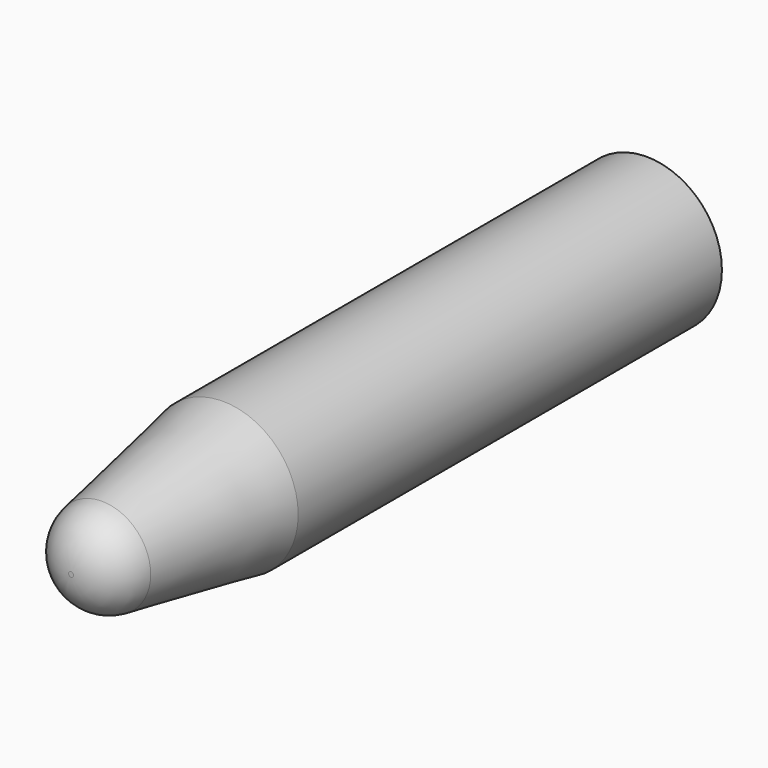
from build123d import *

# Parameters (mm, degrees)
F0_R     = 2.25
F1_DEPTH = 21.5
F2_SIZE2 = 1
F2_SIZE  = 5.6712818196
F3_R     = 1.4


with BuildPart() as f1:
    # F0 (on Front) → F1 (new body)
    with BuildSketch(Plane.XZ):
        Circle(F0_R)
    extrude(amount=F1_DEPTH)

    # F2
    f2_edges = [f1.edges().sort_by_distance(p)[0] for p in [
        (-2.25, -21.5, 0),
    ]]
    f2_side = f1.faces().sort_by_distance((-2.25, -10.75, 0))[0]
    chamfer(f2_edges, length=F2_SIZE, length2=F2_SIZE2, reference=f2_side)

    # F3
    f3_edges = [f1.edges().sort_by_distance(p)[0] for p in [
        (-1.25, -21.5, 0),
    ]]
    fillet(f3_edges, radius=F3_R)


solid = f1.part
